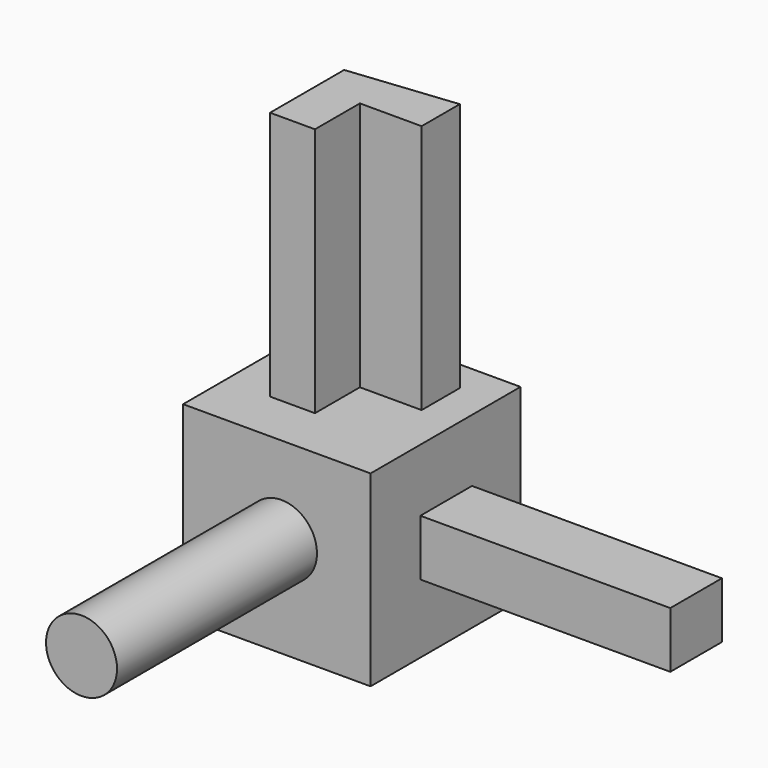
from build123d import *

# Parameters (mm, degrees)
F0_W     = 19.05
F0_H     = 19.05
F1_DEPTH = 19.05
F2_R     = 3.608041
F3_DEPTH = 25.4
F4_W     = 6.560533
F4_H     = 5.704813
F5_DEPTH = 25.4
F7_DEPTH = 25.4


with BuildPart() as f1:
    # F0 (on Top) → F1 (new body)
    with BuildSketch(Plane.XY):
        with Locations((-18.726731, 9.476246)):
            Rectangle(F0_W, F0_H)
    extrude(amount=F1_DEPTH)

    # F2 (on face) → F3 (join)
    with BuildSketch(Plane.XZ.offset(0.048754)):
        with Locations((-18.255401, 10.126043)):
            Circle(F2_R)
    extrude(amount=F3_DEPTH)

    # F4 (on face) → F5 (join)
    with BuildSketch(Plane.YZ.offset(-9.201731)):
        with Locations((9.555563, 9.840802)):
            Rectangle(F4_W, F4_H)
    extrude(amount=F5_DEPTH)

    # F6 (on face) → F7 (join)
    with BuildSketch(Plane.XY.offset(19.05)):
        Polygon((-12.835828, 15.830856), (-23.674972, 14.689893), (-23.674972, 5.276952), (-19.111123, 5.276952), (-19.111123, 10.981766), (-12.835828, 10.981766), align=None)
    extrude(amount=F7_DEPTH)


solid = f1.part
